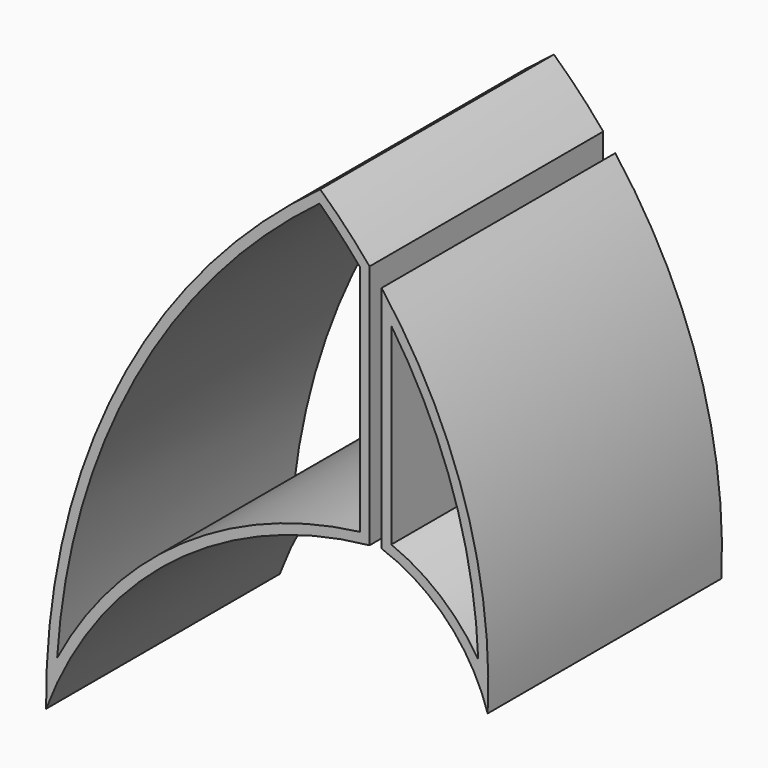
from build123d import *

# Parameters (mm, degrees)
F1_DEPTH = 76.2


with BuildPart() as f1:
    # F0 (on Front) → F1 (new body)
    with BuildSketch(Plane.XZ):
        with BuildLine():
            ThreePointArc((0.169272, 58.678177), (-6.028645, 65.653496), (-12.694461, 72.183133))
            ThreePointArc((-12.694461, 72.183133), (-65.679423, 9.539346), (-84.22105, -70.384733))
            ThreePointArc((-84.22105, -70.384733), (-51.29578, -25.84839), (0.169272, -5.381157))
            Line((0.169272, -5.381157), (0.169272, 58.678177))
        make_face()
        with BuildLine():
            ThreePointArc((-81.332351, -57.732281), (-60.973443, 13.075198), (-12.876888, 68.886537))
            ThreePointArc((-12.876888, 68.886537), (-7.462633, 63.474344), (-2.370728, 57.757833))
            Line((-2.370728, 57.757833), (-2.370728, -3.110487))
            ThreePointArc((-2.370728, -3.110487), (-48.567927, -20.712129), (-81.332351, -57.732281))
        make_face(mode=Mode.SUBTRACT)
        with BuildLine():
            ThreePointArc((3.308685, -5.113421), (20.570728, -16.268326), (30.981313, -33.98921))
            ThreePointArc((30.981313, -33.98921), (25.037894, 12.837458), (3.308685, 54.740949))
            Line((3.308685, 54.740949), (3.308685, -5.113421))
        make_face()
        with BuildLine():
            ThreePointArc((5.848685, 46.881108), (22.057521, 13.820255), (28.519454, -22.428742))
            ThreePointArc((28.519454, -22.428742), (18.724387, -11.061438), (5.848685, -3.355905))
            Line((5.848685, -3.355905), (5.848685, 46.881108))
        make_face(mode=Mode.SUBTRACT)
    extrude(amount=F1_DEPTH)


solid = f1.part
